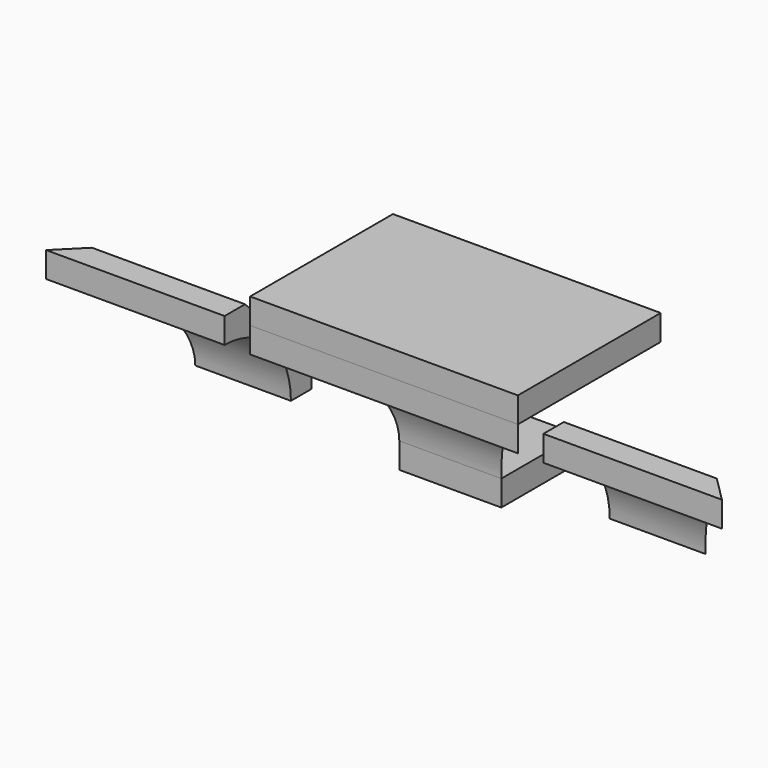
from build123d import *

# Parameters (mm, degrees)
F1_DEPTH = 336.55
F3_DEPTH = 107.951
F4_W     = 101.6
F4_H     = 95.25
F5_DEPTH = 25.4
F6_W     = 266.7
F6_H     = 177.8
F7_DEPTH = 25.4


with BuildPart() as f1:
    # F0 (on Right) → F1 (new body, symmetric)
    with BuildSketch(Plane.YZ):
        with BuildLine():
            Line((-25.4, 0), (0, 0))
            Line((0, 0), (0, 25.4))
            Line((0, 25.4), (-82.55, 107.95))
            Line((-82.55, 107.95), (-107.95, 107.95))
            Line((-107.95, 107.95), (-107.95, 82.55))
            ThreePointArc((-107.95, 82.55), (-49.578335, 58.371665), (-25.4, 0))
        make_face()
    extrude(amount=F1_DEPTH, both=True)

    # F2 (on face) → F3 (cut, through all)
    with BuildSketch(Plane.XY.offset(107.95)):
        Polygon((-336.55, 0), (-336.55, -107.95), (-228.6, 0), align=None)
        Polygon((228.6, 0), (336.55, -107.95), (336.55, 0), align=None)
        Polygon((-25.4, 0), (-158.75, 0), (-158.75, -107.95), (-133.35, -107.95), align=None)
        Polygon((158.75, -107.95), (158.75, 0), (25.4, 0), (133.35, -107.95), align=None)
    extrude(amount=-F3_DEPTH, mode=Mode.SUBTRACT)


with BuildPart() as f5:
    # F4 (on face) → F5 (new body)
    with BuildSketch(Plane(origin=(0, 0, 0), x_dir=(1, 0, 0), z_dir=(0, 0, -1))):
        with Locations((0, -22.225)):
            Rectangle(F4_W, F4_H)
    extrude(amount=F5_DEPTH)


with BuildPart() as f7:
    # F6 (on face) → F7 (new body)
    with BuildSketch(Plane.XY.offset(107.95)):
        with Locations((0, -19.05)):
            Rectangle(F6_W, F6_H)
    extrude(amount=F7_DEPTH)


solid = Compound([f1.part, f5.part, f7.part])
